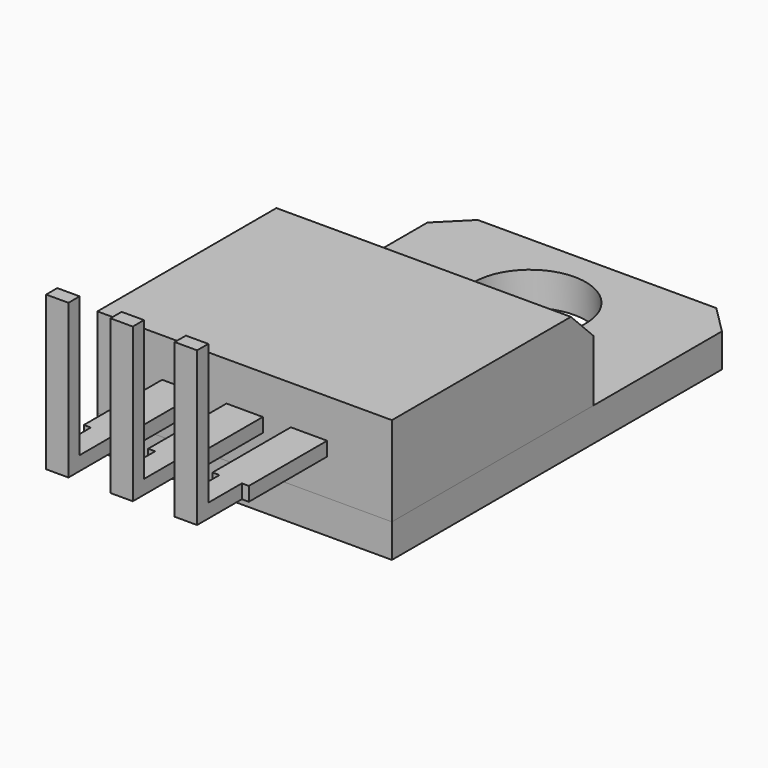
from build123d import *

# Parameters (mm, degrees)
F0_W      = 10.53
F0_H      = 15.75
F1_DEPTH  = 1.2
F2_W      = 10.53
F2_H      = 9
F3_DEPTH  = 3.2
F4_SIZE   = 1
F4_2_SIZE = 1
F5_W      = 1.3
F5_H      = 0.5
F6_DEPTH  = 3.5
F7_W      = 0.8
F7_H      = 0.5
F8_DEPTH  = 2
F9_W      = 0.8
F9_H      = 0.5
F10_DEPTH = 5.5
F12_D     = 4


with BuildPart() as f1:
    # F0 (on Top) → F1 (new body)
    with BuildSketch(Plane.XY):
        Rectangle(F0_W, F0_H)
    extrude(amount=F1_DEPTH)

    # F4#2
    f4_2_edges = [f1.edges().sort_by_distance(p)[0] for p in [
        (5.265, 7.875, 0.6),
        (-5.265, 7.875, 0.6),
    ]]
    chamfer(f4_2_edges, length=F4_2_SIZE)

    # F12 (through all)
    with Locations(Plane.XY.offset(1.2)):
        with Locations((0, 4.875)):
            Hole(F12_D / 2)


with BuildPart() as f3:
    # F2 (on face) → F3 (new body)
    with BuildSketch(Plane.XY.offset(1.2)):
        with Locations((0, -3.375)):
            Rectangle(F2_W, F2_H)
    extrude(amount=F3_DEPTH)

    # F4
    f4_edges = [f3.edges().sort_by_distance(p)[0] for p in [
        (0, 1.125, 4.4),
    ]]
    chamfer(f4_edges, length=F4_SIZE)


with BuildPart() as f6:
    # F5 (on face) → F6 (new body)
    with BuildSketch(Plane.XZ.offset(7.875)):
        with Locations((-2.3, 2.75)):
            Rectangle(F5_W, F5_H)
        with Locations((0, 2.75)):
            Rectangle(F5_W, F5_H)
        with Locations((2.3, 2.75)):
            Rectangle(F5_W, F5_H)
    extrude(amount=F6_DEPTH)

    # F7 (on face) → F8 (join)
    with BuildSketch(Plane.XZ.offset(11.375)):
        with Locations((-2.3, 2.75)):
            Rectangle(F7_W, F7_H)
        with Locations((0, 2.75)):
            Rectangle(F7_W, F7_H)
        with Locations((2.3, 2.75)):
            Rectangle(F7_W, F7_H)
    extrude(amount=F8_DEPTH)

    # F9 (on face) → F10 (join)
    with BuildSketch(Plane(origin=(0, 0, 2.5), x_dir=(1, 0, 0), z_dir=(0, 0, -1))):
        with Locations((-2.3, 13.125)):
            Rectangle(F9_W, F9_H)
        with Locations((0, 13.125)):
            Rectangle(F9_W, F9_H)
        with Locations((2.3, 13.125)):
            Rectangle(F9_W, F9_H)
    extrude(amount=-F10_DEPTH)


solid = Compound([f1.part, f3.part, f6.part])
